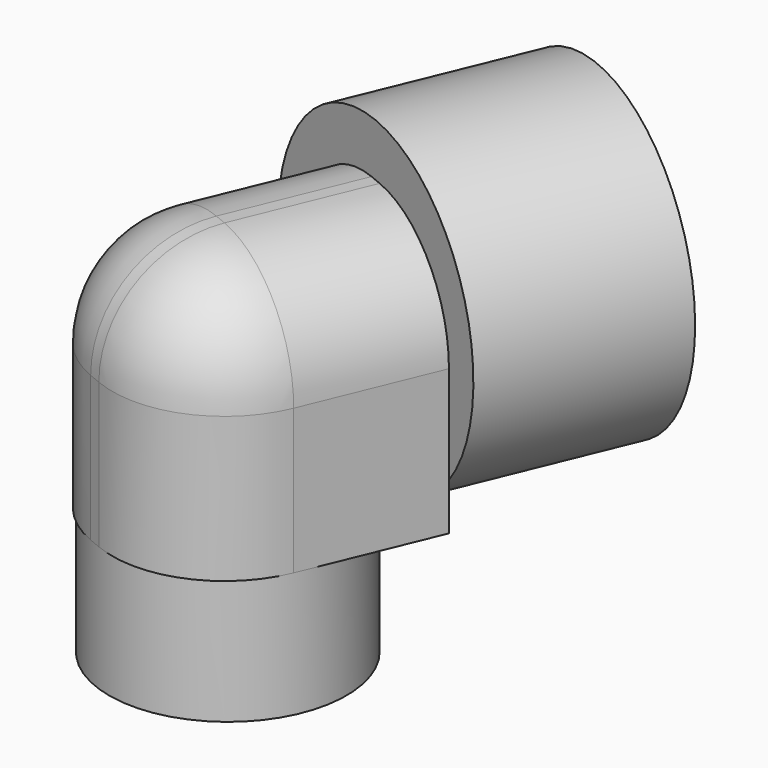
from build123d import *

# Parameters (mm, degrees)
CYLINDER021_R               = 5
CYLINDER021_DEPTH           = 25
CYLINDER022_R               = 5
CYLINDER022_DEPTH           = 15
CYLINDER020_R               = 9
CYLINDER020_DEPTH           = 9.5
BOX007_W                    = 19
BOX007_H                    = 18
BOX007_DEPTH                = 19.5
FILLET_R                    = 8.5
CYLINDER024_R               = 5
CYLINDER024_DEPTH           = 2.5
CYLINDER019_R               = 12
CYLINDER019_DEPTH           = 2.5
CYLINDER027_R               = 8
CYLINDER027_DEPTH           = 12.5
CYLINDER026_R               = 12
CYLINDER026_DEPTH           = 12.5
CYLINDER026_PLACEMENT_ANGLE = 1
FUSION025_PLACEMENT_ANGLE   = 90
FUSION026_PLACEMENT_ANGLE   = 67.52


with BuildPart() as obj1_hole:
    # Cylinder021 → Cylinder021 (new body)
    with BuildSketch(Plane.XY):
        Circle(CYLINDER021_R)
    extrude(amount=CYLINDER021_DEPTH)


with BuildPart() as obj2:
    # Cylinder022 → Cylinder022 (new body)
    with BuildSketch(Plane(origin=(-5, 0, 21), x_dir=(0, 0, -1), z_dir=(1, 0, 0))):
        Circle(CYLINDER022_R)
    extrude(amount=CYLINDER022_DEPTH)

    # Fusion016: union obj1_hole
    add(obj1_hole.part)


with BuildPart() as obj1:
    # Cylinder020 → Cylinder020 (new body)
    with BuildSketch(Plane.XY):
        Circle(CYLINDER020_R)
    extrude(amount=CYLINDER020_DEPTH)


with BuildPart() as obj3:
    # Box007 → Box007 (new body)
    with BuildSketch(Plane(origin=(-9, -9, 9.5), x_dir=(1, 0, 0), z_dir=(0, 0, 1))):
        with Locations((9.5, 9)):
            Rectangle(BOX007_W, BOX007_H)
    extrude(amount=BOX007_DEPTH)

    # Fillet
    fillet_edges = [obj3.edges().sort_by_distance(p)[0] for p in [
        (-9, -9, 19.25),
        (-9, 0, 29),
        (-9, 9, 19.25),
        (0.5, -9, 29),
        (0.5, 9, 29),
    ]]
    fillet(fillet_edges, radius=FILLET_R)

    # Fusion018: union obj1
    add(obj1.part)

    # Cut013: cut obj2
    add(obj2.part, mode=Mode.SUBTRACT)


with BuildPart() as largeplughole:
    # Cylinder024 → Cylinder024 (new body)
    with BuildSketch(Plane.XY):
        Circle(CYLINDER024_R)
    extrude(amount=CYLINDER024_DEPTH)


with BuildPart() as largeplugbase001:
    # Cylinder019 → Cylinder019 (new body)
    with BuildSketch(Plane.XY):
        Circle(CYLINDER019_R)
    extrude(amount=CYLINDER019_DEPTH)

    # Cut008: cut LargePlugHole
    add(largeplughole.part, mode=Mode.SUBTRACT)


with BuildPart() as largeplugwallhole:
    # Cylinder027 → Cylinder027 (new body)
    with BuildSketch(Plane.XY.offset(2.5)):
        Circle(CYLINDER027_R)
    extrude(amount=CYLINDER027_DEPTH)


with BuildPart() as obj4:
    # Cylinder026 → Cylinder026 (new body)
    with BuildSketch(Plane.XY):
        Circle(CYLINDER026_R)
    extrude(amount=CYLINDER026_DEPTH)


with BuildPart() as obj4_1:
    # Cylinder026 placement: moved
    add(obj4.part.moved(Location((0, 0, 2.5))).rotate(Axis((0, 0, 2.5), (0, 0, 1)), CYLINDER026_PLACEMENT_ANGLE))

    # Cut007: cut LargePlugWallHole
    add(largeplugwallhole.part, mode=Mode.SUBTRACT)

    # Fusion025: union LargePlugBase001
    add(largeplugbase001.part)


with BuildPart() as obj4_2:
    # Fusion025 placement: moved
    add(obj4_1.part.moved(Location((10, 0, 21))).rotate(Axis((10, 0, 21), (0, 1, 0)), FUSION025_PLACEMENT_ANGLE))

    # Fusion026: union obj3
    add(obj3.part)


with BuildPart() as obj4_3:
    # Fusion026 placement: moved
    add(obj4_2.part.moved(Location((54, -251.25, 94))).rotate(Axis((54, -251.25, 94), (0, 0, 1)), FUSION026_PLACEMENT_ANGLE))


solid = obj4_3.part
